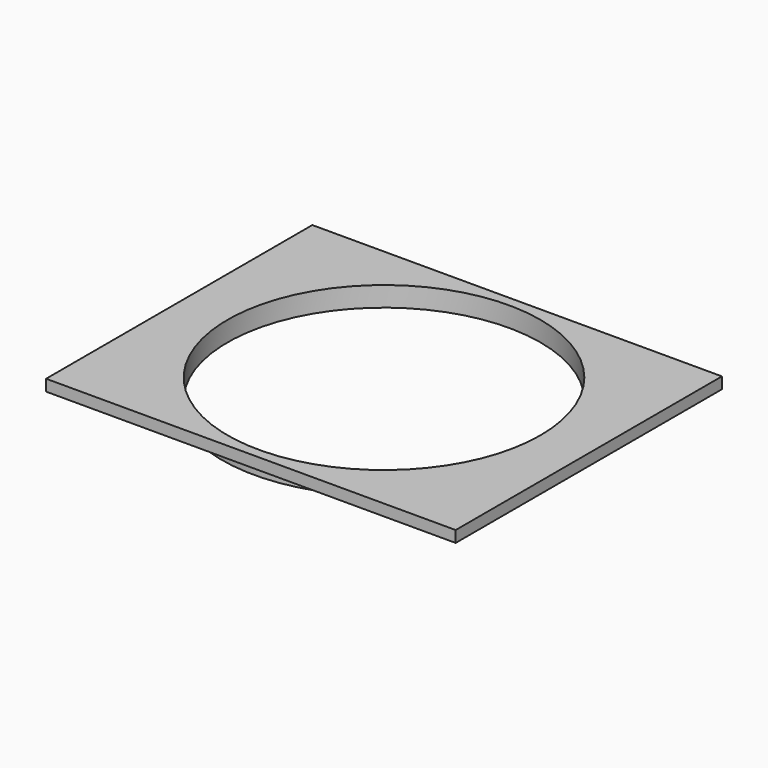
from build123d import *

# Parameters (mm, degrees)
F0_W     = 144
F0_H     = 117
F0_R     = 55
F1_DEPTH = 4
F2_R     = 57
F2_R_2   = 55
F3_DEPTH = 3


with BuildPart() as f1:
    # F0 (on Top) → F1 (new body)
    with BuildSketch(Plane.XY):
        Rectangle(F0_W, F0_H)
        Circle(F0_R, mode=Mode.SUBTRACT)
    extrude(amount=F1_DEPTH)

    # F2 (on face) → F3 (join)
    with BuildSketch(Plane(origin=(0, 0, 0), x_dir=(1, 0, 0), z_dir=(0, 0, -1))):
        Circle(F2_R)
        Circle(F2_R_2, mode=Mode.SUBTRACT)
    extrude(amount=F3_DEPTH)


solid = f1.part
